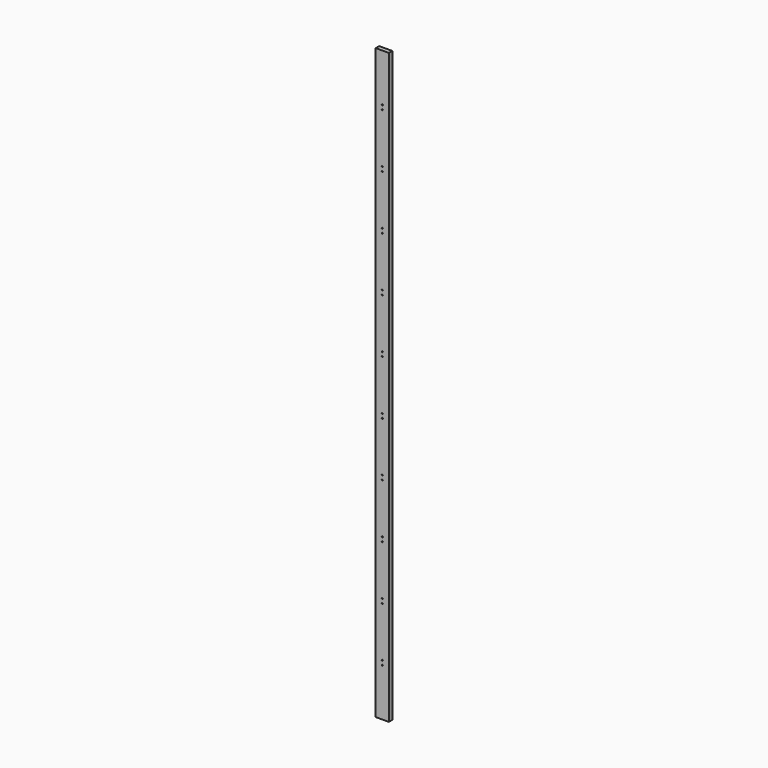
from build123d import *

# Parameters (mm, degrees)
F0_W     = 12
F0_H     = 542
F1_DEPTH = 4
F2_R     = 0.5
F3_DEPTH = 25


with BuildPart() as f1:
    # F0 (on Front) → F1 (new body)
    with BuildSketch(Plane.XZ):
        with Locations((-28.563729, 235.892393)):
            Rectangle(F0_W, F0_H)
    extrude(amount=F1_DEPTH)

    # F2 (on face) → F3 (cut)
    with BuildSketch(Plane.XZ.offset(4)):
        with Locations((-28.563729, 462.892393)):
            Circle(F2_R)
        with Locations((-28.563729, 458.892393)):
            Circle(F2_R)
        with Locations((-28.563729, 412.892393)):
            Circle(F2_R)
        with Locations((-28.563729, 408.892393)):
            Circle(F2_R)
        with Locations((-28.563729, 362.892393)):
            Circle(F2_R)
        with Locations((-28.563729, 358.892393)):
            Circle(F2_R)
        with Locations((-28.563729, 312.892393)):
            Circle(F2_R)
        with Locations((-28.563729, 308.892393)):
            Circle(F2_R)
        with Locations((-28.563729, 262.892393)):
            Circle(F2_R)
        with Locations((-28.563729, 258.892393)):
            Circle(F2_R)
        with Locations((-28.563729, 212.892393)):
            Circle(F2_R)
        with Locations((-28.563729, 208.892393)):
            Circle(F2_R)
        with Locations((-28.563729, 162.892393)):
            Circle(F2_R)
        with Locations((-28.563729, 158.892393)):
            Circle(F2_R)
        with Locations((-28.563729, 112.892393)):
            Circle(F2_R)
        with Locations((-28.563729, 108.892393)):
            Circle(F2_R)
        with Locations((-28.563729, 62.892393)):
            Circle(F2_R)
        with Locations((-28.563729, 58.892393)):
            Circle(F2_R)
        with Locations((-28.563729, 12.892393)):
            Circle(F2_R)
        with Locations((-28.563729, 8.892393)):
            Circle(F2_R)
        with Locations((-3.563729, 462.892393)):
            Circle(F2_R)
        with Locations((-3.563729, 458.892393)):
            Circle(F2_R)
        with Locations((-3.563729, 412.892393)):
            Circle(F2_R)
        with Locations((-3.563729, 408.892393)):
            Circle(F2_R)
        with Locations((-3.563729, 362.892393)):
            Circle(F2_R)
        with Locations((-3.563729, 358.892393)):
            Circle(F2_R)
        with Locations((-3.563729, 312.892393)):
            Circle(F2_R)
        with Locations((-3.563729, 308.892393)):
            Circle(F2_R)
        with Locations((-3.563729, 262.892393)):
            Circle(F2_R)
        with Locations((-3.563729, 258.892393)):
            Circle(F2_R)
        with Locations((-3.563729, 212.892393)):
            Circle(F2_R)
        with Locations((-3.563729, 208.892393)):
            Circle(F2_R)
        with Locations((-3.563729, 162.892393)):
            Circle(F2_R)
        with Locations((-3.563729, 158.892393)):
            Circle(F2_R)
        with Locations((-3.563729, 112.892393)):
            Circle(F2_R)
        with Locations((-3.563729, 108.892393)):
            Circle(F2_R)
        with Locations((-3.563729, 62.892393)):
            Circle(F2_R)
        with Locations((-3.563729, 58.892393)):
            Circle(F2_R)
        with Locations((-3.563729, 12.892393)):
            Circle(F2_R)
        with Locations((-3.563729, 8.892393)):
            Circle(F2_R)
        with Locations((21.436271, 462.892393)):
            Circle(F2_R)
        with Locations((21.436271, 458.892393)):
            Circle(F2_R)
        with Locations((21.436271, 412.892393)):
            Circle(F2_R)
        with Locations((21.436271, 408.892393)):
            Circle(F2_R)
        with Locations((21.436271, 362.892393)):
            Circle(F2_R)
        with Locations((21.436271, 358.892393)):
            Circle(F2_R)
        with Locations((21.436271, 312.892393)):
            Circle(F2_R)
        with Locations((21.436271, 308.892393)):
            Circle(F2_R)
        with Locations((21.436271, 262.892393)):
            Circle(F2_R)
        with Locations((21.436271, 258.892393)):
            Circle(F2_R)
        with Locations((21.436271, 212.892393)):
            Circle(F2_R)
        with Locations((21.436271, 208.892393)):
            Circle(F2_R)
        with Locations((21.436271, 162.892393)):
            Circle(F2_R)
        with Locations((21.436271, 158.892393)):
            Circle(F2_R)
        with Locations((21.436271, 112.892393)):
            Circle(F2_R)
        with Locations((21.436271, 108.892393)):
            Circle(F2_R)
        with Locations((21.436271, 62.892393)):
            Circle(F2_R)
        with Locations((21.436271, 58.892393)):
            Circle(F2_R)
        with Locations((21.436271, 12.892393)):
            Circle(F2_R)
        with Locations((21.436271, 8.892393)):
            Circle(F2_R)
    extrude(amount=-F3_DEPTH, mode=Mode.SUBTRACT)


solid = f1.part
